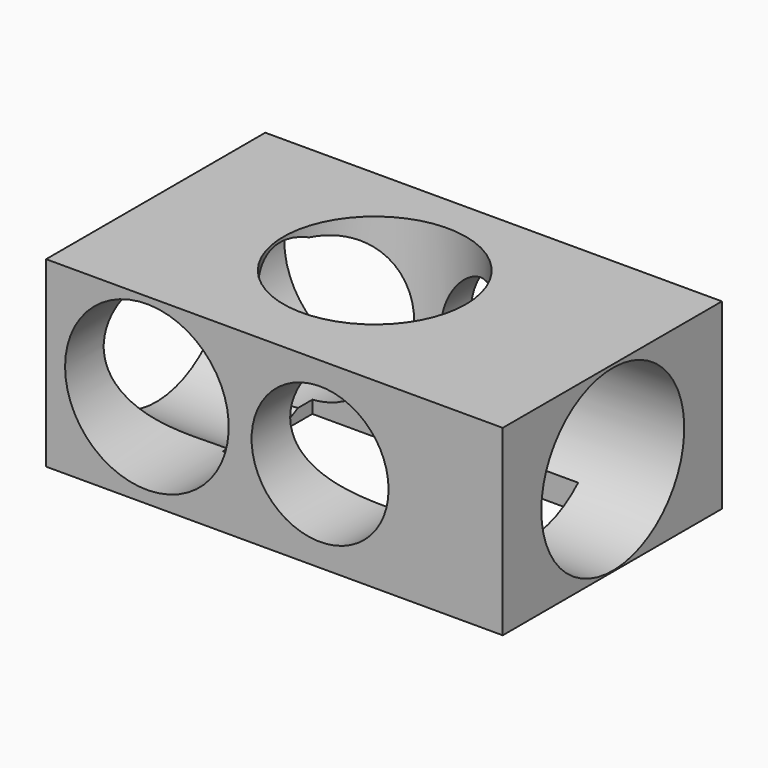
from build123d import *

# Parameters (mm, degrees)
F0_W     = 127
F0_H     = 50.8
F0_R     = 19.05
F1_DEPTH = 76.2
F2_R     = 25.4
F3_DEPTH = 25.4
F4_W     = 73.917866
F4_H     = 31.069875
F5_DEPTH = 25.4
F6_R     = 24.841989
F7_DEPTH = 228.6
F8_R     = 22.758461
F9_DEPTH = 228.6


with BuildPart() as f1:
    # F0 (on Front) → F1 (new body)
    with BuildSketch(Plane.XZ):
        with Locations((18.012082, 30.476777)):
            Rectangle(F0_W, F0_H)
        with Locations((30.712082, 30.476777)):
            Circle(F0_R, mode=Mode.SUBTRACT)
    extrude(amount=F1_DEPTH)

    # F2 (on face) → F3 (cut)
    with BuildSketch(Plane.XY.offset(55.876777)):
        with Locations((13.560723, -35.759289)):
            Circle(F2_R)
    extrude(amount=-F3_DEPTH, mode=Mode.SUBTRACT)

    # F4 (on face) → F5 (cut)
    with BuildSketch(Plane(origin=(0, 0, 5.076777), x_dir=(1, 0, 0), z_dir=(0, 0, -1))):
        with Locations((21.135505, 36.248185)):
            Rectangle(F4_W, F4_H)
    extrude(amount=-F5_DEPTH, mode=Mode.SUBTRACT)

    # F6 (on face) → F7 (cut)
    with BuildSketch(Plane(origin=(-45.487918, 0, 0), x_dir=(0, -1, 0), z_dir=(-1, 0, 0))):
        with Locations((37.944581, 30.179534)):
            Circle(F6_R)
    extrude(amount=-F7_DEPTH, mode=Mode.SUBTRACT)

    # F8 (on face) → F9 (cut)
    with BuildSketch(Plane(origin=(0, 0, 0), x_dir=(-1, 0, 0), z_dir=(0, 1, 0))):
        with Locations((17.447997, 31.272944)):
            Circle(F8_R)
    extrude(amount=-F9_DEPTH, mode=Mode.SUBTRACT)


solid = f1.part
